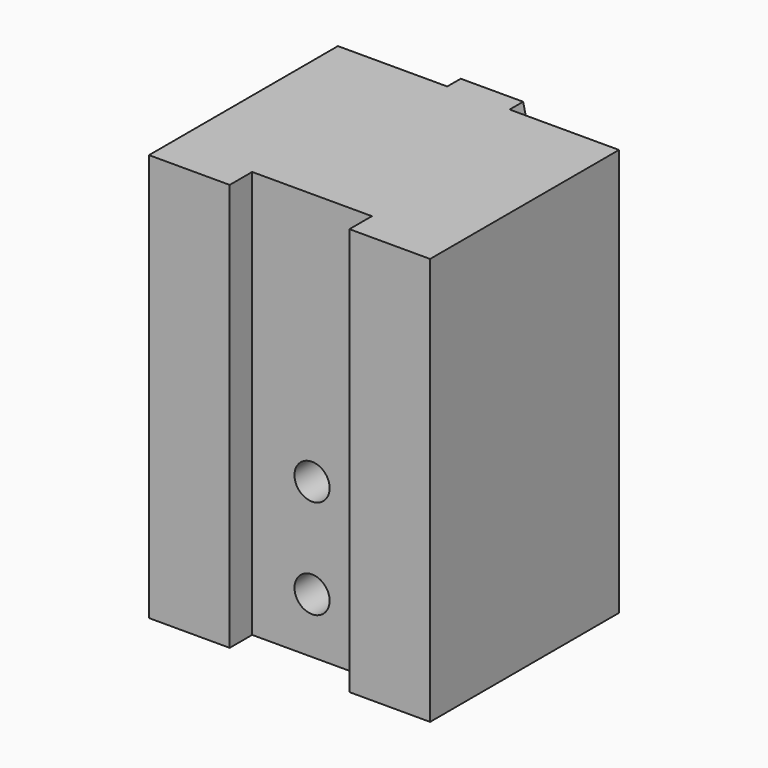
from build123d import *

# Parameters (mm, degrees)
F1_DEPTH = 92.075
F3_D     = 7.9375
F3_DEPTH = 23.7998
F3_TIP   = 2.3846655818
F5_DEPTH = 3.81


with BuildPart() as f1:
    # F0 (on Top) → F1 (new body)
    with BuildSketch(Plane.XY):
        Polygon((-31.75, 57.15), (-31.75, 0), (-13.5255, 0), (-13.5255, 6.35), (13.5255, 6.35), (13.5255, 0), (31.75, 0), (31.75, 57.15), align=None)
    extrude(amount=F1_DEPTH)

    # F3
    with Locations(Plane.XZ.offset(-6.35)):
        with Locations((0, 34.8742), (0, 12.4714)):
            Hole(F3_D / 2, depth=F3_DEPTH)
            with Locations((0, 0, -(F3_DEPTH + F3_TIP / 2))):  # 118° drill point
                Cone(0, F3_D / 2, F3_TIP, mode=Mode.SUBTRACT)

    # F4 (on face) → F5 (cut)
    with BuildSketch(Plane(origin=(0, 57.15, 0), x_dir=(-1, 0, 0), z_dir=(0, 1, 0))):
        Polygon((-31.75, 0), (-28.3056886979, 0), (-7.0485, 92.075), (-31.75, 92.075), align=None)
        Polygon((7.0485, 92.075), (28.3056886979, 0), (31.75, 0), (31.75, 92.075), align=None)
    extrude(amount=-F5_DEPTH, mode=Mode.SUBTRACT)


solid = f1.part
